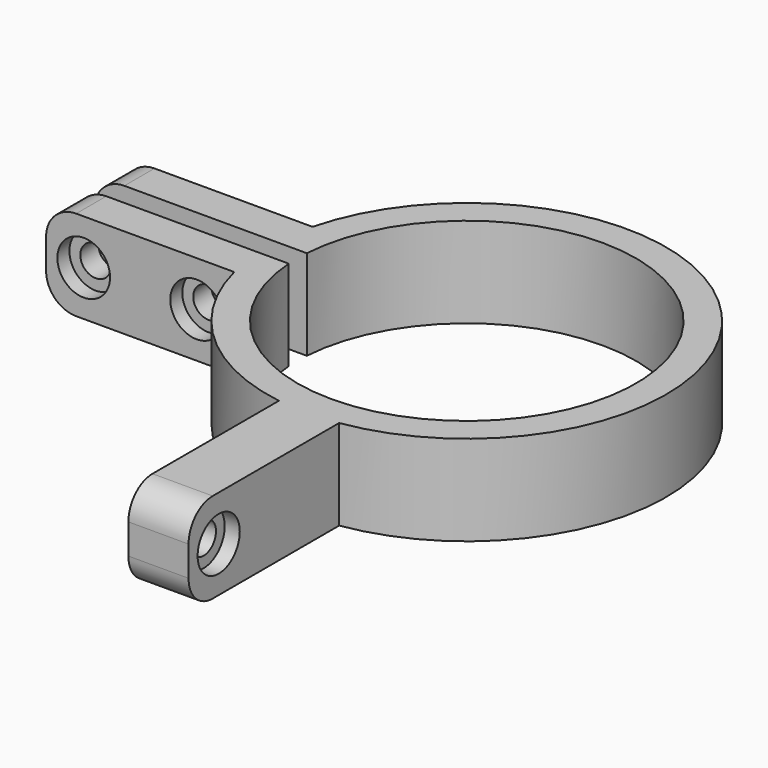
from build123d import *

# Parameters (mm, degrees)
F1_DEPTH  = 6
F6_DEPTH  = 2
F7_DEPTH  = 2
F2_R      = 2.05
F8_DEPTH  = 13
F2_R_2    = 3.5
F9_DEPTH  = 2
F4_R      = 2.05
F10_DEPTH = 8
F4_R_2    = 3.5
F11_DEPTH = 2
F12_R     = 4


with BuildPart() as f1:
    # F0 (on Top) → F1 (new body, symmetric)
    with BuildSketch(Plane.XY):
        with BuildLine():
            ThreePointArc((-22.449944, 1.5), (22.5, 0), (-22.449944, -1.5))
            Line((-22.449944, -1.5), (-50.690465, -1.5))
            Line((-50.690465, -1.5), (-50.690465, -6.5))
            Line((-50.690465, -6.5), (-25.690465, -6.5))
            ThreePointArc((-25.690465, -6.5), (-17.814817, -19.618417), (-4, -26.196374))
            Line((-4, -26.196374), (-4, -51.196374))
            Line((-4, -51.196374), (4, -51.196374))
            Line((4, -51.196374), (4, -26.196374))
            ThreePointArc((4, -26.196374), (19.618417, 17.814817), (-25.690465, 6.5))
            Line((-25.690465, 6.5), (-50.690465, 6.5))
            Line((-50.690465, 6.5), (-50.690465, 1.5))
            Line((-50.690465, 1.5), (-22.449944, 1.5))
        make_face()
    extrude(amount=F1_DEPTH, both=True)

    # F5 (on face) → F6 (cut)
    with BuildSketch(Plane(origin=(-4, 0, 0), x_dir=(0, -1, 0), z_dir=(-1, 0, 0))):
        Polygon((50.093488, -2.25), (50.093488, 2.25), (46.196374, 4.5), (42.299259, 2.25), (42.299259, -2.25), (46.196374, -4.5), align=None)
    extrude(amount=-F6_DEPTH, mode=Mode.SUBTRACT)

    # F3 (on face) → F7 (cut)
    with BuildSketch(Plane(origin=(0, 6.5, 0), x_dir=(-1, 0, 0), z_dir=(0, 1, 0))):
        Polygon((49.587579, -2.25), (49.587579, 2.25), (45.690465, 4.5), (41.793351, 2.25), (41.793351, -2.25), (45.690465, -4.5), align=None)
        Polygon((34.587579, 2.25), (30.690465, 4.5), (26.793351, 2.25), (26.793351, -2.25), (30.690465, -4.5), (34.587579, -2.25), align=None)
    extrude(amount=-F7_DEPTH, mode=Mode.SUBTRACT)

    # F2 (on face) → F8 (cut, through all)
    with BuildSketch(Plane.XZ.offset(6.5)):
        with Locations((-45.690465, 0)):
            Circle(F2_R)
        with Locations((-30.690465, 0)):
            Circle(F2_R)
    extrude(amount=-F8_DEPTH, mode=Mode.SUBTRACT)

    # F2 (on face) → F9 (cut)
    with BuildSketch(Plane.XZ.offset(6.5)):
        with Locations((-45.690465, 0)):
            Circle(F2_R_2)
        with Locations((-45.690465, 0)):
            Circle(F2_R, mode=Mode.SUBTRACT)
        with Locations((-30.690465, 0)):
            Circle(F2_R_2)
        with Locations((-30.690465, 0)):
            Circle(F2_R, mode=Mode.SUBTRACT)
    extrude(amount=-F9_DEPTH, mode=Mode.SUBTRACT)

    # F4 (on face) → F10 (cut, through all)
    with BuildSketch(Plane.YZ.offset(4)):
        with Locations((-46.196374, 0)):
            Circle(F4_R)
    extrude(amount=-F10_DEPTH, mode=Mode.SUBTRACT)

    # F4 (on face) → F11 (cut)
    with BuildSketch(Plane.YZ.offset(4)):
        with Locations((-46.196374, 0)):
            Circle(F4_R_2)
        with Locations((-46.196374, 0)):
            Circle(F4_R, mode=Mode.SUBTRACT)
    extrude(amount=-F11_DEPTH, mode=Mode.SUBTRACT)

    # F12
    f12_edges = [f1.edges().sort_by_distance(p)[0] for p in [
        (-50.690465, 4, 6),
        (-50.690465, 4, -6),
        (-50.690465, -4, 6),
        (-50.690465, -4, -6),
        (0, -51.196374, 6),
        (0, -51.196374, -6),
    ]]
    fillet(f12_edges, radius=F12_R)


solid = f1.part
